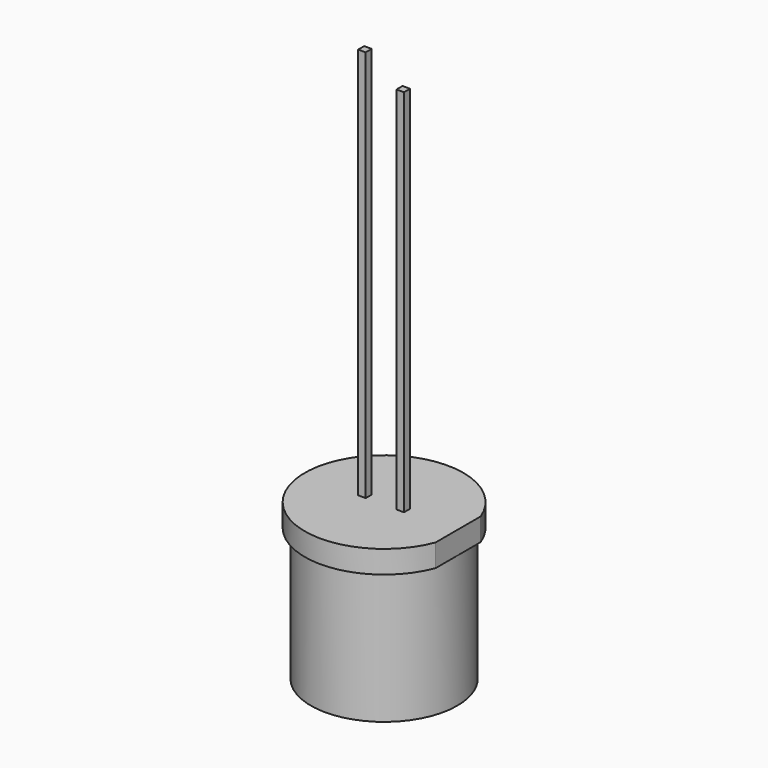
from build123d import *

# Parameters (mm, degrees)
PAD_DEPTH    = 1.5
SKETCH001_R  = 4.85
PAD001_DEPTH = 8.8
SKETCH002_W  = 0.5
SKETCH002_H  = 0.5
PAD002_DEPTH = 26
SKETCH003_W  = 0.5
SKETCH003_H  = 0.5
PAD003_DEPTH = 24.5


with BuildPart() as part:
    # Sketch → Pad (new body)
    with BuildSketch(Plane.XY):
        with BuildLine():
            ThreePointArc((4.906655, 1.867414), (-5.25, 0), (4.906655, -1.867414))
            Line((4.906655, -1.867414), (4.906655, 1.867414))
        make_face()
    extrude(amount=PAD_DEPTH)

    # Sketch001 (on Face3 of Pad) → Pad001 (join)
    with BuildSketch(Plane(origin=(0, 0, 0), x_dir=(1, 0, 0), z_dir=(0, 0, -1))):
        Circle(SKETCH001_R)
    extrude(amount=PAD001_DEPTH)

    # Sketch002 (on Face4 of Pad001) → Pad002 (join)
    with BuildSketch(Plane.XY.offset(1.5)):
        with Locations((-1.27, 0)):
            Rectangle(SKETCH002_W, SKETCH002_H)
    extrude(amount=PAD002_DEPTH)

    # Sketch003 (on Face4 of Pad001) → Pad003 (join)
    with BuildSketch(Plane.XY.offset(1.5)):
        with Locations((1.27, 0)):
            Rectangle(SKETCH003_W, SKETCH003_H)
    extrude(amount=PAD003_DEPTH)


solid = part.part
